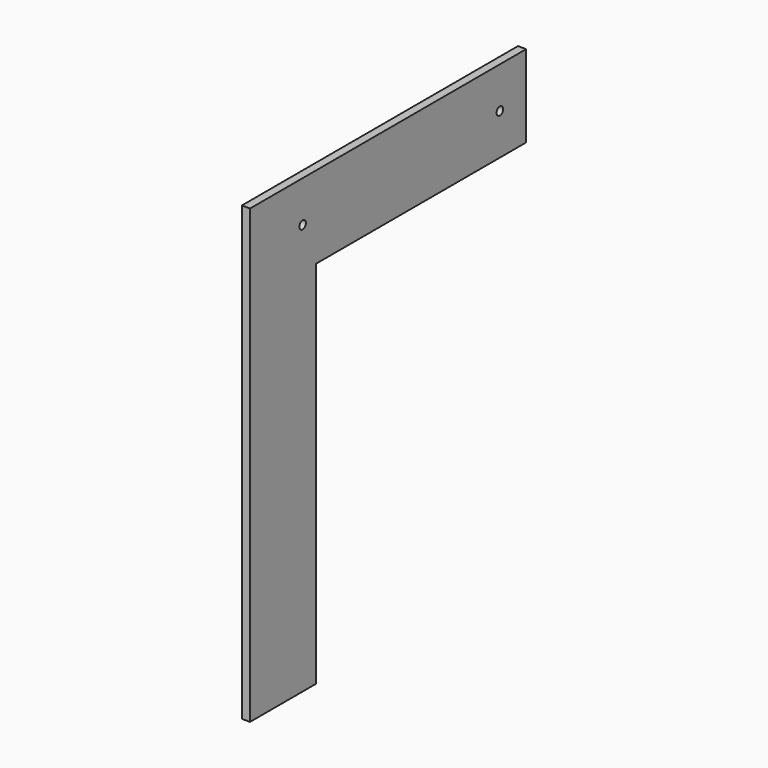
from build123d import *

# Parameters (mm, degrees)
F0_R     = 5
F1_DEPTH = 10


with BuildPart() as f1:
    # F0 (on Right) → F1 (new body)
    with BuildSketch(Plane.YZ):
        Polygon((223.333333, 94.888889), (223.333333, 194.888889), (-196.666667, 194.888889), (-196.666667, -355.111111), (-96.666667, -355.111111), (-96.666667, 94.888889), align=None)
        with Locations((-116.666667, 144.888889)):
            Circle(F0_R, mode=Mode.SUBTRACT)
        with Locations((183.333333, 144.888889)):
            Circle(F0_R, mode=Mode.SUBTRACT)
    extrude(amount=F1_DEPTH)


solid = f1.part
